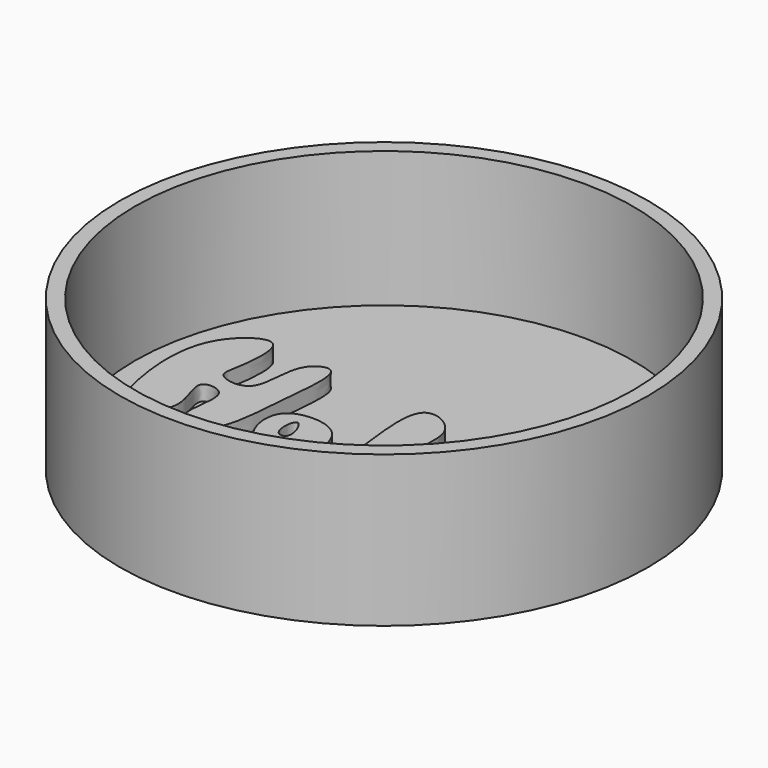
from build123d import *

# Parameters (mm, degrees)
F0_R     = 44.45
F1_DEPTH = 25.4
F2_T     = -2.54
F4_DEPTH = 2.54


with BuildPart() as f1:
    # F0 (on Top) → F1 (new body)
    with BuildSketch(Plane.XY):
        Circle(F0_R)
    extrude(amount=-F1_DEPTH)

    # F2
    f2_openings = [f1.faces().sort_by_distance(p)[0] for p in [
        (0, 0, 0),
    ]]
    offset(amount=F2_T, openings=f2_openings)

    # F3 (on face) → F4 (join)
    with BuildSketch(Plane.XY.offset(-22.86)):
        with BuildLine():
            add(Edge.make_bspline(
                [(-34.2467054725, 7.0715909824), (-36.7466979125, 2.5208801085), (-35.5062058755, -8.4523124017), (-32.3326478729, -17.225025316), (-24.3976970475, -10.8872143145), (-30.0253767895, -2.6126511838), (-22.5245116323, -3.310928712), (-25.6448214909, -11.2085803692), (-21.7143037733, -15.6173833965), (-17.2506619578, -11.2130081991), (-16.9916671822, -0.8109118127), (-15.2053107938, 12.0324956866), (-22.237798004, 8.7471580061), (-20.3760474746, -1.5855855024), (-28.094791199, -0.4553499539), (-26.9972647665, 3.0636949374), (-25.8726684669, 14.5466070491), (-32.5180814702, 10.2181877153), (-34.2467054725, 7.0715909824)],
                knots=[0, 0, 0, 0, 0.097148718, 0.1601006462, 0.221355699, 0.2850062209, 0.3286058509, 0.3928542258, 0.4421530725, 0.4922169077, 0.5746972685, 0.6515037846, 0.6991238356, 0.7696589688, 0.8205862886, 0.8640596057, 0.9328263546, 1, 1, 1, 1], degree=3))
        make_face()
        with BuildLine():
            add(Edge.make_bspline(
                [(-10.2032953873, -2.0204544999), (-11.917718799, -1.9908597019), (-15.3671861237, -2.9346980561), (-15.2954679706, -8.7878052696), (-12.003304615, -12.6187077497), (-8.2465608463, -8.9371343775), (-9.9373322435, -12.8004121046), (-3.7625525613, -11.0648585974), (-4.3850998349, -3.3159976142), (-8.345048542, -2.0525320132), (-10.2032953873, -2.0204544999)],
                knots=[0, 0, 0, 0, 0.1321504728, 0.2715911334, 0.3957906506, 0.5012741091, 0.580122158, 0.7015508871, 0.856763389, 1, 1, 1, 1], degree=3))
        make_face()
        with BuildLine():
            add(Edge.make_bspline(
                [(-11.2135224044, -4.2429547757), (-11.8744831481, -4.2928762708), (-12.2830132201, -8.5705519899), (-8.6729001911, -8.5391226921), (-10.5294028244, -4.1912841241), (-11.2135224044, -4.2429547757)],
                knots=[0, 0, 0, 0, 0.3702070227, 0.6168216111, 1, 1, 1, 1], degree=3))
        make_face(mode=Mode.SUBTRACT)
        with BuildLine():
            add(Edge.make_bspline(
                [(0, 8.2838637754), (-2.2884528778, 6.2038728165), (1.1575823398, -8.0549851129), (-1.0883461981, -11.702671366), (3.9702887646, -12.9117233253), (4.8498278073, -7.0463693116), (6.8192709827, -2.4183322799), (9.4316317825, -6.8277660603), (7.0736705518, -11.1709342173), (13.440445183, -12.464147326), (14.3238724955, 3.4516118982), (4.320988494, -2.2502266905), (7.6378137148, 6.4160222098), (1.4111128223, 9.5664341709), (0, 8.2838637754)],
                knots=[0, 0, 0, 0, 0.1437469909, 0.2119321675, 0.2734192578, 0.3574113668, 0.4246291352, 0.4891644041, 0.5610827757, 0.6253683695, 0.7423803547, 0.8258898215, 0.9113622902, 1, 1, 1, 1], degree=3))
        make_face()
        with BuildLine():
            add(Edge.make_bspline(
                [(23.1342054904, -2.222500043), (20.6059023388, -0.8231844591), (14.1649490293, -1.8579816843), (16.4892365948, -8.4994216989), (18.5204217897, -11.8365832739), (24.0995541278, -7.0546727697), (24.2632501663, -11.4119708302), (28.3789299697, -9.3506959903), (25.8065904743, -3.7015592103), (23.1342054904, -2.222500043)],
                knots=[0, 0, 0, 0, 0.1801297265, 0.3383115304, 0.4553262233, 0.6061517703, 0.7059651562, 0.8096051195, 1, 1, 1, 1], degree=3))
        make_face()
        with BuildLine():
            add(Edge.make_bspline(
                [(19.6994338185, -4.0409089997), (19.091401387, -3.8791963487), (17.6987252395, -5.9292492728), (19.0601907672, -8.3947995816), (21.4247512037, -7.3905723429), (20.4154547235, -4.2313423266), (19.6994338185, -4.0409089997)],
                knots=[0, 0, 0, 0, 0.2494548323, 0.4964756416, 0.7062412043, 1, 1, 1, 1], degree=3))
        make_face(mode=Mode.SUBTRACT)
    extrude(amount=F4_DEPTH)


solid = f1.part
